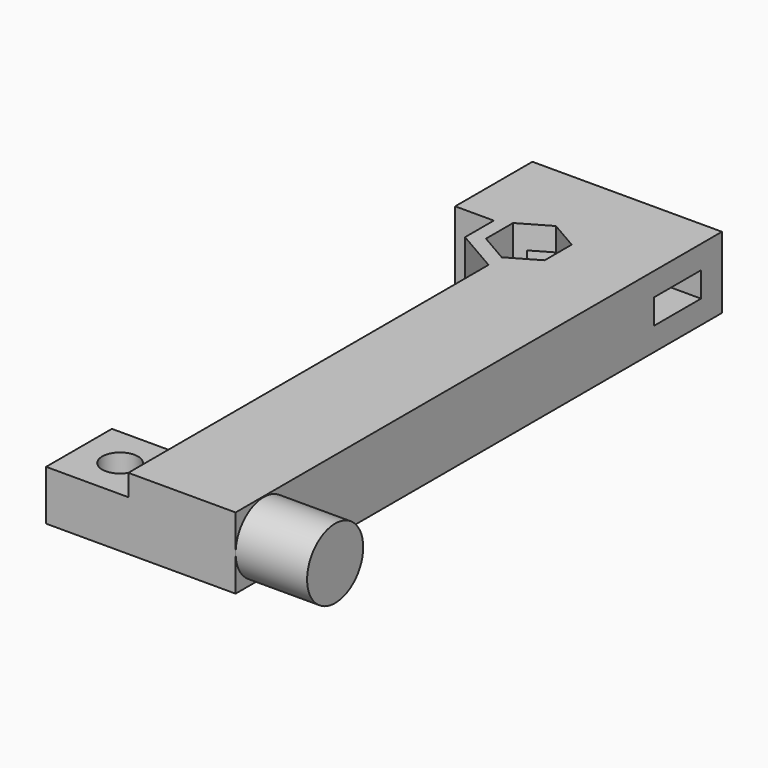
from build123d import *

# Parameters (mm, degrees)
F0_W      = 15
F0_H      = 83
F1_DEPTH  = 10
F2_W      = 11.5
F2_H      = 11.5
F3_DEPTH  = 10
F4_W      = 11.5
F4_H      = 11.5
F5_DEPTH  = 10
F6_W      = 8.2
F6_H      = 3.5
F7_DEPTH  = 26.501
F9_DEPTH  = 10
F11_DEPTH = 4.5
F12_R     = 4.6
F13_DEPTH = 4
F14_R     = 2.5
F15_DEPTH = 1.5
F16_W     = 11.5
F16_H     = 11.5
F17_DEPTH = 3
F18_R     = 2.5
F19_DEPTH = 7
F20_R     = 4.9
F21_DEPTH = 10
F22_W     = 26.5
F22_H     = 2
F23_DEPTH = 10


with BuildPart() as f1:
    # F0 (on Top) → F1 (new body)
    with BuildSketch(Plane.XY):
        with Locations((-7.5, 41.5)):
            Rectangle(F0_W, F0_H)
    extrude(amount=F1_DEPTH)

    # F2 (on Top) → F3 (join, through all)
    with BuildSketch(Plane.XY):
        with Locations((-20.75, 5.75)):
            Rectangle(F2_W, F2_H)
    extrude(amount=F3_DEPTH)

    # F4 (on Top) → F5 (join, through all)
    with BuildSketch(Plane.XY):
        with Locations((-20.75, 77.25)):
            Rectangle(F4_W, F4_H)
    extrude(amount=F5_DEPTH)

    # F6 (on face) → F7 (cut, through all)
    with BuildSketch(Plane(origin=(-26.5, 0, 0), x_dir=(0, -1, 0), z_dir=(-1, 0, 0))):
        with Locations((-77.25, 5)):
            Rectangle(F6_W, F6_H)
    extrude(amount=-F7_DEPTH, mode=Mode.SUBTRACT)

    # F8 (on Top) → F9 (join, through all)
    with BuildSketch(Plane.XY):
        Polygon((-21.1, 66.478163), (-15, 62.956327), (-15, 71.5), (-21.1, 71.5), align=None)
    extrude(amount=F9_DEPTH)

    # F10 (on face) → F11 (cut)
    with BuildSketch(Plane.XY.offset(10)):
        Polygon((-19.1, 72.367136), (-19.1, 67.632864), (-15, 65.265728), (-10.9, 67.632864), (-10.9, 72.367136), (-15, 74.734272), align=None)
    extrude(amount=-F11_DEPTH, mode=Mode.SUBTRACT)

    # F12 (on face) → F13 (cut)
    with BuildSketch(Plane(origin=(0, 0, 0), x_dir=(1, 0, 0), z_dir=(0, 0, -1))):
        with Locations((-15, -70)):
            Circle(F12_R)
    extrude(amount=-F13_DEPTH, mode=Mode.SUBTRACT)

    # F14 (on face) → F15 (cut, through all)
    with BuildSketch(Plane(origin=(0, 0, 4), x_dir=(1, 0, 0), z_dir=(0, 0, -1))):
        with Locations((-15, -70)):
            Circle(F14_R)
    extrude(amount=-F15_DEPTH, mode=Mode.SUBTRACT)

    # F16 (on face) → F17 (cut)
    with BuildSketch(Plane.XY.offset(10)):
        with Locations((-20.75, 5.75)):
            Rectangle(F16_W, F16_H)
    extrude(amount=-F17_DEPTH, mode=Mode.SUBTRACT)

    # F18 (on face) → F19 (cut, through all)
    with BuildSketch(Plane.XY.offset(7)):
        with Locations((-20.75, 5.75)):
            Circle(F18_R)
    extrude(amount=-F19_DEPTH, mode=Mode.SUBTRACT)

    # F20 (on face) → F21 (join)
    with BuildSketch(Plane.YZ):
        with Locations((4.9, 5)):
            Circle(F20_R)
    extrude(amount=F21_DEPTH)

    # F22 (on Top) → F23 (join, through all)
    with BuildSketch(Plane.XY):
        with Locations((-13.25, 84)):
            Rectangle(F22_W, F22_H)
    extrude(amount=F23_DEPTH)


solid = f1.part
